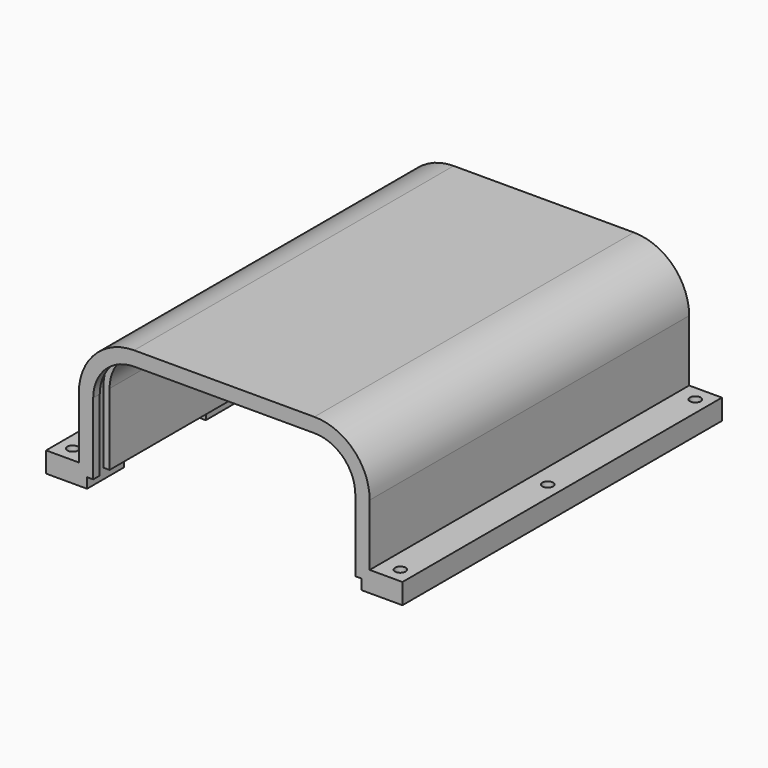
from build123d import *

# Parameters (mm, degrees)
SKETCH_W        = 174
SKETCH_H        = 195
SKETCH_R        = 2.6
PAD_DEPTH       = 10
PAD001_DEPTH    = 195
POCKET_DEPTH    = 5
POCKET_FACE10_W = 195
POCKET_FACE10_H = 128
POCKET001_DEPTH = 5
PAD003_DEPTH    = 6
POCKET003_DEPTH = 10
PAD006_DEPTH    = 4


with BuildPart() as part:
    # Sketch → Pad (new body)
    with BuildSketch(Plane.XY):
        Rectangle(SKETCH_W, SKETCH_H)
        with Locations((80, 90)):
            Circle(SKETCH_R, mode=Mode.SUBTRACT)
        with Locations((-80, 90)):
            Circle(SKETCH_R, mode=Mode.SUBTRACT)
        with Locations((-80, -90)):
            Circle(SKETCH_R, mode=Mode.SUBTRACT)
        with Locations((80, -90)):
            Circle(SKETCH_R, mode=Mode.SUBTRACT)
        with Locations((-80, 0)):
            Circle(SKETCH_R, mode=Mode.SUBTRACT)
        with Locations((80, 0)):
            Circle(SKETCH_R, mode=Mode.SUBTRACT)
    extrude(amount=PAD_DEPTH)

    # Sketch001 (on Face3 of Pad) → Pad001 (join)
    with BuildSketch(Plane.XZ.offset(97.5)):
        with BuildLine():
            Line((-64, 10), (-64, 40))
            ThreePointArc((-44, 60), (-58.142136, 54.142136), (-64, 40))
            Line((-44, 60), (44, 60))
            ThreePointArc((64, 40), (58.142136, 54.142136), (44, 60))
            Line((64, 40), (64, 10))
            Line((64, 10), (71, 10))
            Line((71, 40), (71, 10))
            ThreePointArc((71, 40), (63.091883, 59.091883), (44, 67))
            Line((-44, 67), (44, 67))
            ThreePointArc((-44, 67), (-63.091883, 59.091883), (-71, 40))
            Line((-71, 10), (-71, 40))
            Line((-64, 10), (-71, 10))
        make_face()
    extrude(amount=-PAD001_DEPTH)

    # Sketch003 (on Face4 of Pad001) → Pocket (cut)
    with BuildSketch(Plane(origin=(0, 0, 0), x_dir=(1, 0, 0), z_dir=(0, 0, -1))):
        Polygon((-67, 97.5), (67, 97.5), (67, 75), (77, 75), (77, 25), (67, 25), (67, 0), (67, -25), (77, -25), (77, -75), (67, -75), (67, -97.5), (-67, -97.5), (-67, -75), (-77, -75), (-77, -25), (-67, -25), (-67, 0), (-67, 25), (-77, 25), (-77, 75), (-67, 75), align=None)
    extrude(amount=-POCKET_DEPTH, mode=Mode.SUBTRACT)

    # Pocket Face10 → Pocket001 (cut)
    with BuildSketch(Plane(origin=(0, 0, 10), x_dir=(0, 1, 0), z_dir=(0, 0, 1))):
        Rectangle(POCKET_FACE10_W, POCKET_FACE10_H)
    extrude(amount=-POCKET001_DEPTH, mode=Mode.SUBTRACT)

    # Sketch005 (on Face6 of Pocket001) → Pad003 (join)
    with BuildSketch(Plane(origin=(0, 97.5, 0), x_dir=(-1, 0, 0), z_dir=(0, 1, 0))):
        with BuildLine():
            Line((-64, 5), (64, 5))
            Line((64, 40), (64, 5))
            ThreePointArc((64, 40), (58.142143, 54.142129), (44.00002, 60))
            Line((-44, 60), (44.00002, 60))
            ThreePointArc((-44, 60), (-58.142136, 54.142136), (-64, 40))
            Line((-64, 40), (-64, 5))
        make_face()
    extrude(amount=-PAD003_DEPTH)

    # Sketch006 (on Face30 of Pad003) → Pocket003 (cut)
    with BuildSketch(Plane.XZ.offset(97.5)):
        with BuildLine():
            ThreePointArc((-44, 63), (-60.263456, 56.263456), (-67, 40))
            Line((-67, 40), (-67, 0))
            Line((-67, 0), (67, 0))
            Line((67, 0), (67, 40))
            ThreePointArc((67, 40), (60.263456, 56.263456), (44, 63))
            Line((-44, 63), (44, 63))
        make_face()
    extrude(amount=-POCKET003_DEPTH, mode=Mode.SUBTRACT)

    # Sketch008 (on Face33 of Pocket003) → Pad006 (join)
    with BuildSketch(Plane.XZ.offset(97.5)):
        with BuildLine():
            Line((-44, 63), (44, 63))
            ThreePointArc((67, 40), (60.263456, 56.263456), (44, 63))
            Line((67, 5), (67, 40))
            Line((64, 5), (67, 5))
            Line((64, 5), (64, 40))
            ThreePointArc((64, 40), (58.142136, 54.142136), (44, 60))
            Line((44, 60), (-44, 60))
            ThreePointArc((-44, 60), (-58.142136, 54.142136), (-64, 40))
            Line((-64, 40), (-64, 5))
            Line((-64, 5), (-67, 5))
            Line((-67, 40), (-67, 5))
            ThreePointArc((-44, 63), (-60.263456, 56.263456), (-67, 40))
        make_face()
    extrude(amount=-PAD006_DEPTH)


solid = part.part
